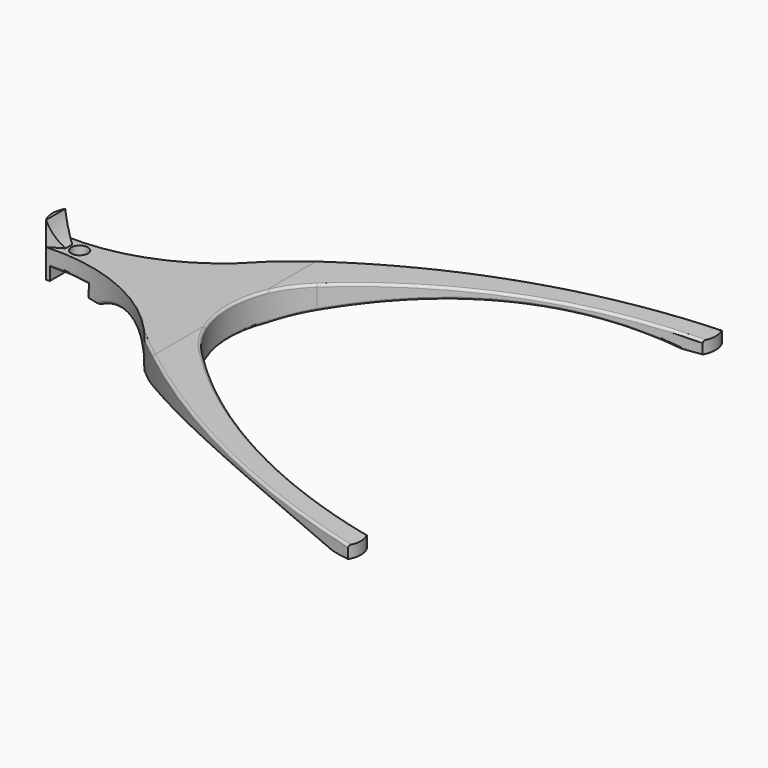
from build123d import *

# Parameters (mm, degrees)
SKETCH_R             = 3.475
PAD_DEPTH            = 12
SKETCH001_W          = 17
SKETCH001_H          = 5
POCKET_DEPTH         = 97.501
POCKET_DEPTH_BACK    = 97.501
POCKET001_DEPTH      = 97.501
POCKET001_DEPTH_BACK = 97.501
PAD011_DEPTH         = 10
POCKET005_DEPTH      = 97.501
POCKET005_DEPTH_BACK = 97.501
FILLET_R             = 1


with BuildPart() as part:
    # Sketch → Pad (new body)
    with BuildSketch(Plane.XY):
        with BuildLine():
            ThreePointArc((-75, 5), (-38.829523, 12.047301), (-10, 35))
            ThreePointArc((125, 97.5), (53.385859, 75.136544), (-10, 35))
            ThreePointArc((125, 87.5), (126.339746, 92.5), (125, 97.5))
            ThreePointArc((125, 87.5), (62.753429, 68.243142), (10, 30))
            ThreePointArc((10, 30), (-2.426407, 0), (10, -30))
            ThreePointArc((10, -30), (62.753429, -68.243142), (125, -87.5))
            ThreePointArc((125, -97.5), (126.339746, -92.5), (125, -87.5))
            ThreePointArc((-10, -35), (53.385859, -75.136544), (125, -97.5))
            ThreePointArc((-10, -35), (-38.829523, -12.047301), (-75, -5))
            ThreePointArc((-75, 5), (-76.339746, 0), (-75, -5))
        make_face()
        with Locations((-65, 0)):
            Circle(SKETCH_R, mode=Mode.SUBTRACT)
    extrude(amount=PAD_DEPTH)

    # Sketch001 → Pocket (cut, two sides)
    with BuildSketch(Plane.XZ) as pocket_sk:
        with Locations((-65, 2.5)):
            Rectangle(SKETCH001_W, SKETCH001_H)
    extrude(amount=-POCKET_DEPTH, mode=Mode.SUBTRACT)
    extrude(pocket_sk.sketch, amount=POCKET_DEPTH_BACK, mode=Mode.SUBTRACT)

    # Sketch002 → Pocket001 (cut, two sides)
    with BuildSketch(Plane.XZ) as pocket001_sk:
        with BuildLine():
            ThreePointArc((115, 0), (57.5, 6.297274), (0, 0))
            Line((0, 0), (115, 0))
        make_face()
        with BuildLine():
            Line((127, 5), (127, 12))
            Line((0, 12), (127, 12))
            ThreePointArc((127, 5), (63.545818, 9.331261), (0, 12))
        make_face()
        with BuildLine():
            ThreePointArc((-10, 0), (-30, 5.358984), (-50, 0))
            Line((-50, 0), (-10, 0))
        make_face()
    extrude(amount=-POCKET001_DEPTH, mode=Mode.SUBTRACT)
    extrude(pocket001_sk.sketch, amount=POCKET001_DEPTH_BACK, mode=Mode.SUBTRACT)

    # Sketch020 (on Face9 of Pocket001) → Pad011 (join)
    with BuildSketch(Plane.XY.offset(12)):
        with BuildLine():
            Line((-75, 5), (-69.5, 1.75))
            Line((-69.5, 1.75), (-69.5, -1.75))
            Line((-69.5, -1.75), (-75, -5))
            ThreePointArc((-75, 5), (-76.339746, 0), (-75, -5))
        make_face()
    extrude(amount=PAD011_DEPTH)

    # Sketch021 → Pocket005 (cut, two sides)
    with BuildSketch(Plane.XZ) as pocket005_sk:
        with BuildLine():
            ThreePointArc((-75, 22), (-72.841789, 16.674516), (-69.5, 12))
            Line((-69.5, 22), (-69.5, 12))
            Line((-75, 22), (-69.5, 22))
        make_face()
    extrude(amount=-POCKET005_DEPTH, mode=Mode.SUBTRACT)
    extrude(pocket005_sk.sketch, amount=POCKET005_DEPTH_BACK, mode=Mode.SUBTRACT)

    # Fillet
    fillet_edges = [part.edges().sort_by_distance(p)[0] for p in [
        (62.795986, -68.264414, 9.372474),
        (-2.426407, 0, 0),
        (58.360369, -65.978333, 6.295881),
        (58.360369, 65.978333, 6.295881),
        (59.263955, 77.778262, 9.563479),
        (59.263955, -77.778262, 9.563479),
        (-27.932169, 18.188347, 5.305499),
        (-27.932169, -18.188347, 5.305499),
        (54.598583, -75.694573, 6.28143),
        (54.598583, 75.694573, 6.28143),
        (-56.5, -6.341138, 2.5),
        (-64.961432, -5.17314, 5),
        (-56.5, 6.341138, 2.5),
        (-64.961432, 5.17314, 5),
        (-73.5, 4.943159, 2.5),
    ]]
    fillet(fillet_edges, radius=FILLET_R)


solid = part.part
